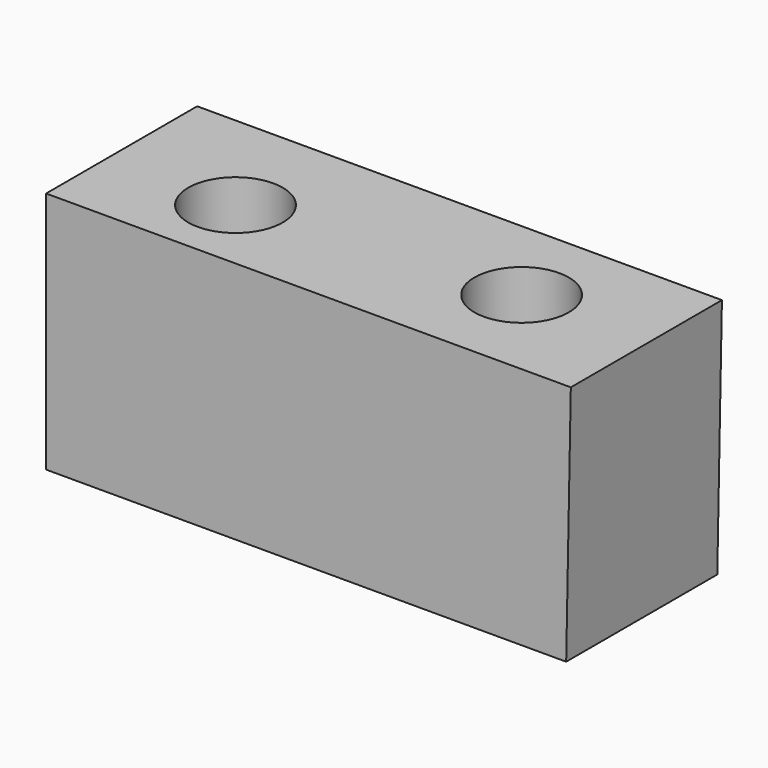
from build123d import *

# Parameters (mm, degrees)
F1_DEPTH = 50.8
F3_D     = 25.4
F5_D     = 25.4


with BuildPart() as f1:
    # F0 (on Front) → F1 (new body)
    with BuildSketch(Plane.XZ):
        Polygon((-73.58104, 0), (66.307701, 0), (67.553416, 65.382518), (-73.58104, 65.382518), align=None)
    extrude(amount=F1_DEPTH)

    # F3 (through all)
    with Locations(Plane.XY.offset(65.382518)):
        with Locations((-39.210644, -30.069295)):
            Hole(F3_D / 2)

    # F5 (through all)
    with Locations(Plane.XY.offset(65.382518)):
        with Locations((33.226751, -24.435168)):
            Hole(F5_D / 2)


solid = f1.part
